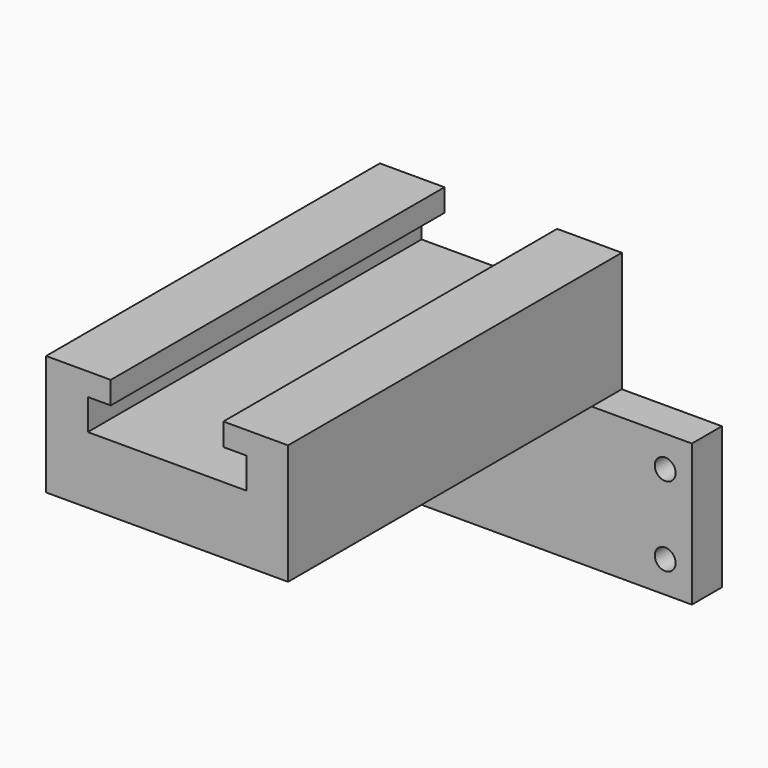
from build123d import *

# Parameters (mm, degrees)
SKETCH001_W      = 53
SKETCH001_H      = 17
SKETCH001_R      = 1.25
EXTRUDE002_DEPTH = 4.5
EXTRUDE001_DEPTH = 50
EXTRUDE_DEPTH    = 50
EXTRUDE003_DEPTH = 4.5


with BuildPart() as extrude002:
    # Sketch001 → Extrude002 (new body)
    with BuildSketch(Plane.XZ):
        with Locations((14.5, -8.5)):
            Rectangle(SKETCH001_W, SKETCH001_H)
        with Locations((-8.8, -3.75)):
            Circle(SKETCH001_R, mode=Mode.SUBTRACT)
        with Locations((-8.8, -13.25)):
            Circle(SKETCH001_R, mode=Mode.SUBTRACT)
        with Locations((37.8, -13.25)):
            Circle(SKETCH001_R, mode=Mode.SUBTRACT)
        with Locations((37.8, -3.75)):
            Circle(SKETCH001_R, mode=Mode.SUBTRACT)
    extrude(amount=EXTRUDE002_DEPTH)


with BuildPart() as extrude001:
    # Sketch → Extrude001 (new body)
    with BuildSketch(Plane.XZ):
        Polygon((0, 0), (29, 0), (29, 8), (29, 11.7), (29, 14.4), (21.25, 14.4), (21.25, 11.7), (24, 11.7), (24, 8), (5, 8), (5, 11.7), (7.75, 11.7), (7.75, 14.4), (0, 14.4), (0, 11.7), (0, 8), align=None)
    extrude(amount=EXTRUDE001_DEPTH)


with BuildPart() as extrude_body:
    # Sketch → Extrude (new body)
    with BuildSketch(Plane.XZ):
        Polygon((0, 0), (29, 0), (29, 8), (29, 11.7), (29, 14.4), (21.25, 14.4), (21.25, 11.7), (24, 11.7), (24, 8), (5, 8), (5, 11.7), (7.75, 11.7), (7.75, 14.4), (0, 14.4), (0, 11.7), (0, 8), align=None)
    extrude(amount=EXTRUDE_DEPTH)


with BuildPart() as fusion:
    # Sketch001 → Extrude003 (new body)
    with BuildSketch(Plane.XZ):
        with Locations((14.5, -8.5)):
            Rectangle(SKETCH001_W, SKETCH001_H)
        with Locations((-8.8, -3.75)):
            Circle(SKETCH001_R, mode=Mode.SUBTRACT)
        with Locations((-8.8, -13.25)):
            Circle(SKETCH001_R, mode=Mode.SUBTRACT)
        with Locations((37.8, -13.25)):
            Circle(SKETCH001_R, mode=Mode.SUBTRACT)
        with Locations((37.8, -3.75)):
            Circle(SKETCH001_R, mode=Mode.SUBTRACT)
    extrude(amount=EXTRUDE003_DEPTH)

    # Fusion: union Extrude002, Extrude001, Extrude body
    add(extrude002.part)
    add(extrude001.part)
    add(extrude_body.part)


solid = fusion.part
